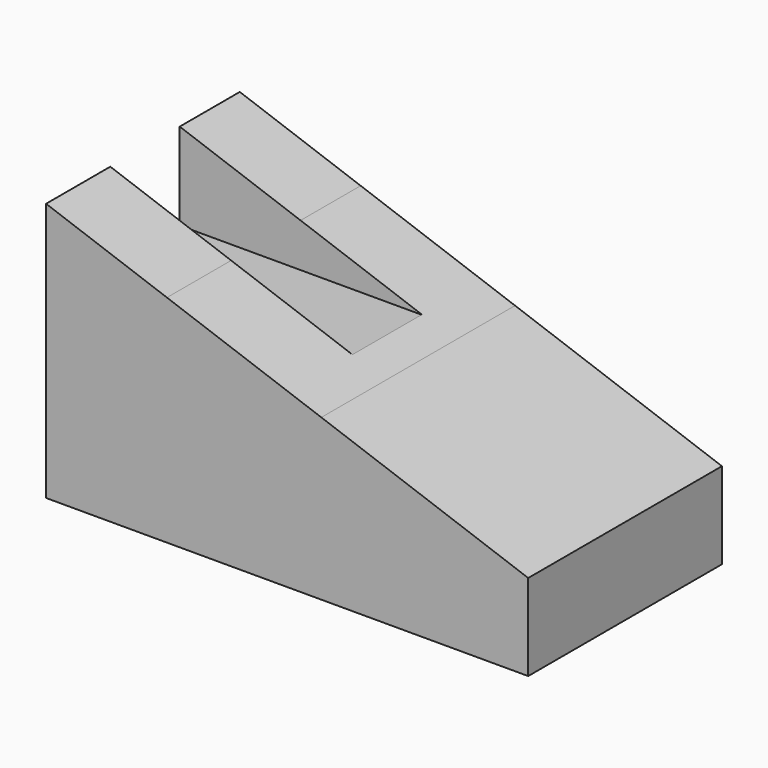
from build123d import *

# Parameters (mm, degrees)
F1_DEPTH = 25.4
F2_W     = 9.1030672193
F2_H     = 9.1277305037
F3_DEPTH = 25.4


with BuildPart() as f1:
    # F0 (on Front) → F1 (new body)
    with BuildSketch(Plane.XZ):
        Polygon((-37.8958209513, 22.6323588295), (-50.5723580718, 27.1732080728), (-50.5723580718, 22.6323588295), align=None)
        Polygon((-37.8958209513, 22.6323588295), (-50.5723580718, 22.6323588295), (-50.5723580718, 9.0577360243), (-21.7006838323, 9.0577360243), (-21.7006838323, 16.8311155222), align=None)
        Polygon((-21.7006838323, 9.0577360243), (-50.5723580718, 9.0577360243), (-50.5723580718, 0), (0, 0), (0, 9.0577360243), align=None)
        Polygon((0, 9.0577360243), (-21.7006838323, 16.8311155222), (-21.7006838323, 9.0577360243), align=None)
        Polygon((-37.8958209513, 22.6323588295), (-50.5723580718, 27.1732080728), (-50.5723580718, 22.6323588295), align=None)
        Polygon((-21.7006838323, 9.0577360243), (-50.5723580718, 9.0577360243), (-50.5723580718, 0), (0, 0), (0, 9.0577360243), align=None)
        Polygon((-37.8958209513, 22.6323588295), (-50.5723580718, 22.6323588295), (-50.5723580718, 9.0577360243), (-21.7006838323, 9.0577360243), (-21.7006838323, 16.8311155222), align=None)
    extrude(amount=F1_DEPTH)

    # F2 (on face) → F3 (cut)
    with BuildSketch(Plane(origin=(-50.5723580718, 0, 0), x_dir=(0, -1, 0), z_dir=(-1, 0, 0))):
        with Locations((12.4278347939, 22.6093428209)):
            Rectangle(F2_W, F2_H)
    extrude(amount=-F3_DEPTH, mode=Mode.SUBTRACT)


solid = f1.part
